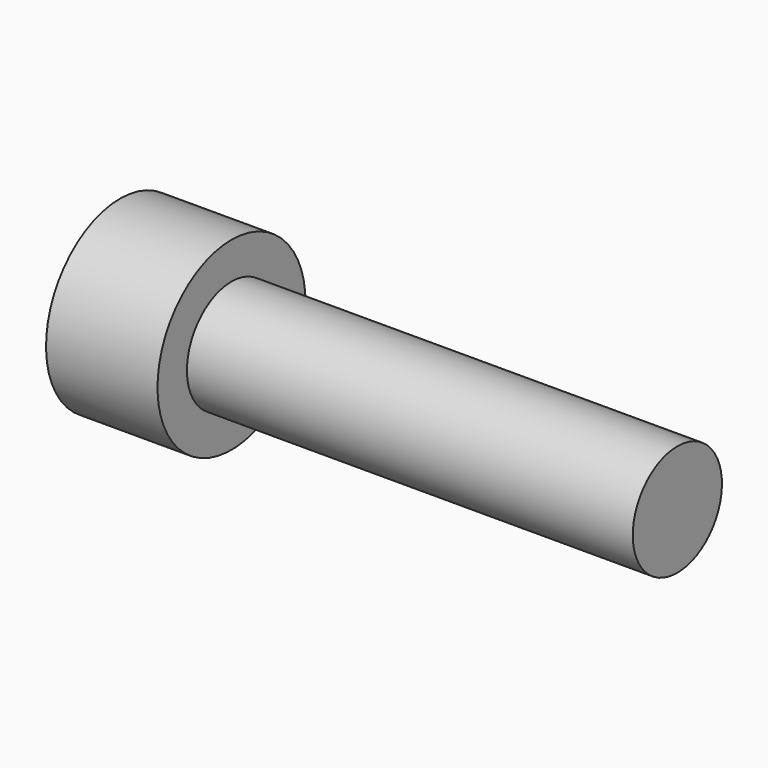
from build123d import *

# Parameters (mm, degrees)
F0_W     = 20
F0_H     = 2.5
F3_DEPTH = 2.5


with BuildPart() as f1:
    # F0 (on Front) → F1 (revolve)
    with BuildSketch(Plane.XZ):
        with Locations((10, 1.25)):
            Rectangle(F0_W, F0_H)
        Polygon((0, 0), (0, 2.5), (0, 4.15), (-5, 4.15), (-5, 0), align=None)
    revolve(axis=Axis((10, 0, 0), (1, 0, 0)))

    # F2 (on face) → F3 (cut)
    with BuildSketch(Plane(origin=(-5, 0, 0), x_dir=(0, -1, 0), z_dir=(-1, 0, 0))):
        Polygon((0, 2.309401), (-2, 1.154701), (-2, -1.154701), (0, -2.309401), (2, -1.154701), (2, 1.154701), align=None)
    extrude(amount=-F3_DEPTH, mode=Mode.SUBTRACT)


solid = f1.part
